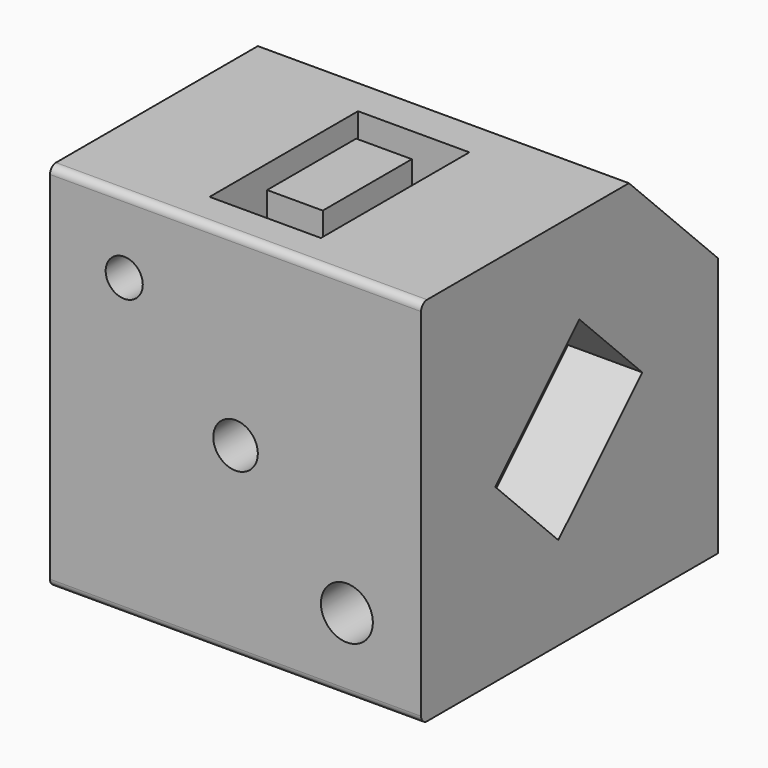
from build123d import *

# Parameters (mm, degrees)
F0_W      = 2540
F0_H      = 2540
F1_DEPTH  = 2540
F2_SIZE2  = 762
F2_SIZE   = 762
F3_W      = 762
F3_H      = 1270
F3_W_2    = 381
F3_H_2    = 762
F4_DEPTH  = 635
F6_DEPTH  = 508
F7_R      = 127
F7_R_2    = 152.4
F7_R_3    = 177.8
F8_DEPTH  = 508
F11_DEPTH = 254
F12_R     = 50.8
F13_R     = 50.8
F9_R      = 152.4
F14_DEPTH = 762


with BuildPart() as f1:
    # F0 (on Front) → F1 (new body)
    with BuildSketch(Plane.XZ):
        with Locations((-1270, 1270)):
            Rectangle(F0_W, F0_H)
    extrude(amount=F1_DEPTH)

    # F2
    f2_edges = [f1.edges().sort_by_distance(p)[0] for p in [
        (-1270, 0, 2540),
    ]]
    chamfer(f2_edges, length=F2_SIZE, length2=F2_SIZE2)

    # F3 (on face) → F4 (cut)
    with BuildSketch(Plane.XY.offset(2540)):
        with Locations((-1270, -1651)):
            Rectangle(F3_W, F3_H)
        with Locations((-1270, -1651)):
            Rectangle(F3_W_2, F3_H_2, mode=Mode.SUBTRACT)
    extrude(amount=-F4_DEPTH, mode=Mode.SUBTRACT)

    # F5 (on face) → F6 (cut)
    with BuildSketch(Plane.YZ):
        Polygon((-647.764143, 1353.42049), (-1186.57951, 1892.235857), (-1905, 1173.815367), (-1366.184633, 635), align=None)
    extrude(amount=-F6_DEPTH, mode=Mode.SUBTRACT)

    # F7 (on face) → F8 (cut)
    with BuildSketch(Plane.XZ.offset(2540)):
        with Locations((-2032, 2032)):
            Circle(F7_R)
        with Locations((-1270, 1270)):
            Circle(F7_R_2)
        with Locations((-508, 508)):
            Circle(F7_R_3)
    extrude(amount=-F8_DEPTH, mode=Mode.SUBTRACT)

    # F10 (on face) → F11 (cut)
    with BuildSketch(Plane(origin=(0, 0, 0), x_dir=(-1, 0, 0), z_dir=(0, 1, 0))):
        with BuildLine():
            Line((1714.5, 762), (825.5, 762))
            ThreePointArc((825.5, 762), (690.796158, 706.203842), (635, 571.5))
            ThreePointArc((635, 571.5), (690.796158, 436.796158), (825.5, 381))
            Line((825.5, 381), (1714.5, 381))
            ThreePointArc((1714.5, 381), (1849.203842, 436.796158), (1905, 571.5))
            ThreePointArc((1905, 571.5), (1849.203842, 706.203842), (1714.5, 762))
        make_face()
    extrude(amount=-F11_DEPTH, mode=Mode.SUBTRACT)

    # F12
    f12_edges = [f1.edges().sort_by_distance(p)[0] for p in [
        (-1270, -2540, 0),
    ]]
    fillet(f12_edges, radius=F12_R)

    # F13
    f13_edges = [f1.edges().sort_by_distance(p)[0] for p in [
        (-1270, -2540, 2540),
    ]]
    fillet(f13_edges, radius=F13_R)

    # F9 (on face) → F14 (cut)
    with BuildSketch(Plane(origin=(-2540, 0, 0), x_dir=(0, -1, 0), z_dir=(-1, 0, 0))):
        with Locations((635, 1397)):
            Circle(F9_R)
        with Locations((889, 889)):
            Circle(F9_R)
        with Locations((1524, 1143)):
            Circle(F9_R)
    extrude(amount=-F14_DEPTH, mode=Mode.SUBTRACT)


solid = f1.part
